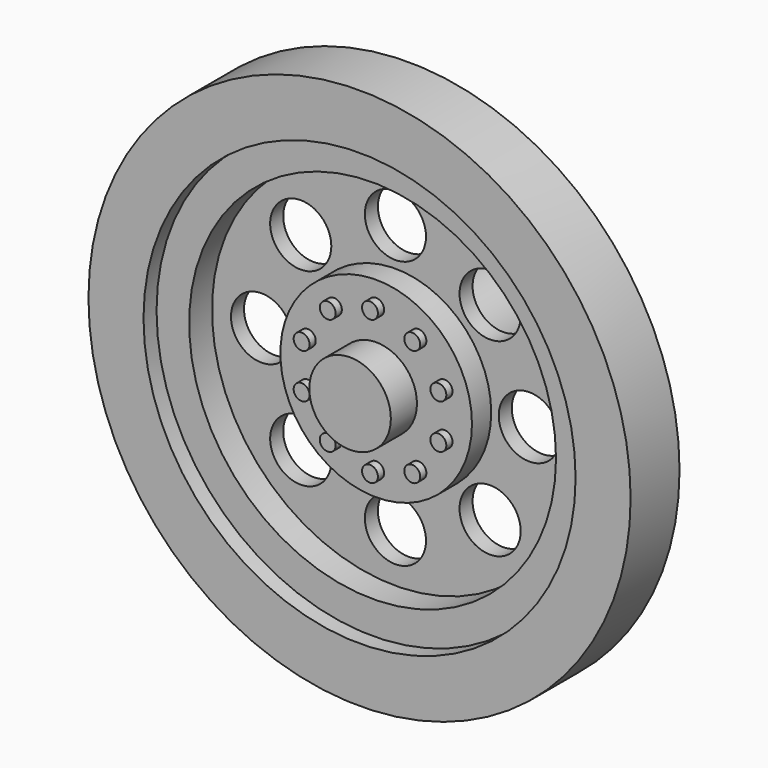
from build123d import *

# Parameters (mm, degrees)
F0_R      = 16.891
F1_DEPTH  = 3.81
F2_R      = 13.462
F3_DEPTH  = 1.016
F4_R      = 11.43
F5_DEPTH  = 1.778
F6_R      = 1.905
F7_DEPTH  = 1.9812
F8_R      = 5.969
F9_DEPTH  = 1.4986
F10_R     = 0.4953
F11_DEPTH = 0.4826
F12_R     = 2.54
F13_DEPTH = 2.032
F14_R     = 3.429
F15_DEPTH = 8.89
F16_R     = 1.397
F17_DEPTH = 8.89


with BuildPart() as f1:
    # F0 (on Front) → F1 (new body)
    with BuildSketch(Plane.XZ):
        Circle(F0_R)
    extrude(amount=-F1_DEPTH)

    # F2 (on face) → F3 (cut)
    with BuildSketch(Plane.XZ):
        Circle(F2_R)
    extrude(amount=-F3_DEPTH, mode=Mode.SUBTRACT)

    # F4 (on face) → F5 (cut)
    with BuildSketch(Plane.XZ.offset(-1.016)):
        Circle(F4_R)
    extrude(amount=-F5_DEPTH, mode=Mode.SUBTRACT)

    # F6 (on face) → F7 (cut)
    with BuildSketch(Plane.XZ.offset(-2.794)):
        with Locations((-5.899304, 5.899304)):
            Circle(F6_R)
        with Locations((0, 8.342876)):
            Circle(F6_R)
        with Locations((5.899304, 5.899304)):
            Circle(F6_R)
        with Locations((8.342876, 0)):
            Circle(F6_R)
        with Locations((5.899304, -5.899304)):
            Circle(F6_R)
        with Locations((0, -8.342876)):
            Circle(F6_R)
        with Locations((-5.899304, -5.899304)):
            Circle(F6_R)
        with Locations((-8.342876, 0)):
            Circle(F6_R)
    extrude(amount=-F7_DEPTH, mode=Mode.SUBTRACT)

    # F8 (on face) → F9 (join)
    with BuildSketch(Plane.XZ.offset(-2.794)):
        Circle(F8_R)
    extrude(amount=F9_DEPTH)

    # F10 (on face) → F11 (join)
    with BuildSketch(Plane.XZ.offset(-1.2954)):
        with Locations((-2.633183, 3.624266)):
            Circle(F10_R)
        with Locations((0, 4.479839)):
            Circle(F10_R)
        with Locations((2.633183, 3.624266)):
            Circle(F10_R)
        with Locations((4.26058, 1.384346)):
            Circle(F10_R)
        with Locations((4.26058, -1.384346)):
            Circle(F10_R)
        with Locations((2.633183, -3.624266)):
            Circle(F10_R)
        with Locations((0, -4.479839)):
            Circle(F10_R)
        with Locations((-2.633183, -3.624266)):
            Circle(F10_R)
        with Locations((-4.26058, -1.384346)):
            Circle(F10_R)
        with Locations((-4.26058, 1.384346)):
            Circle(F10_R)
    extrude(amount=F11_DEPTH)

    # F14 (on face) → F15 (join)
    with BuildSketch(Plane(origin=(0, 3.81, 0), x_dir=(-1, 0, 0), z_dir=(0, 1, 0))):
        Circle(F14_R)
    extrude(amount=F15_DEPTH)

    # F16 (on face) → F17 (cut)
    with BuildSketch(Plane(origin=(0, 12.7, 0), x_dir=(-1, 0, 0), z_dir=(0, 1, 0))):
        Circle(F16_R)
    extrude(amount=-F17_DEPTH, mode=Mode.SUBTRACT)


with BuildPart() as f13:
    # F12 (on face) → F13 (new body)
    with BuildSketch(Plane.XZ.offset(-1.2954)):
        Circle(F12_R)
    extrude(amount=F13_DEPTH)


solid = Compound([f1.part, f13.part])
